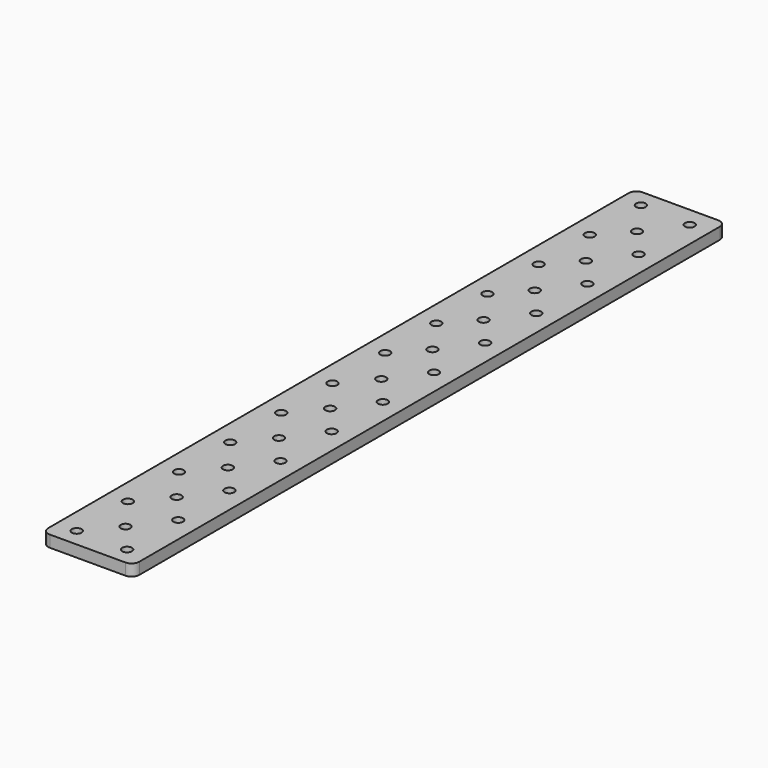
from build123d import *

# Parameters (mm, degrees)
F0_W     = 298.45
F0_H     = 2428.875
F1_DEPTH = 38.1
F2_R     = 25.4
F3_R     = 25.4
F4_R     = 25.4
F6_D     = 31.75


with BuildPart() as f1:
    # F0 (on Top) → F1 (new body)
    with BuildSketch(Plane.XY):
        Rectangle(F0_W, F0_H)
    extrude(amount=F1_DEPTH)

    # F2
    f2_edges = [f1.edges().sort_by_distance(p)[0] for p in [
        (149.225, 1214.4375, 19.05),
    ]]
    fillet(f2_edges, radius=F2_R)

    # F3
    f3_edges = [f1.edges().sort_by_distance(p)[0] for p in [
        (-149.225, 1214.4375, 19.05),
    ]]
    fillet(f3_edges, radius=F3_R)

    # F4
    f4_edges = [f1.edges().sort_by_distance(p)[0] for p in [
        (-149.225, -1214.4375, 19.05),
        (149.225, -1214.4375, 19.05),
    ]]
    fillet(f4_edges, radius=F4_R)

    # F6 (through all)
    with Locations(Plane.XY.offset(38.1)):
        with Locations((-82.55, -1155.7), (82.55, -1155.7), (0, -1058.8625), (82.55, -946.15), (-82.55, -946.15), (0, 1036.6375), (82.55, 1149.35), (82.55, 939.8), (-82.55, 1155.7), (-82.55, 946.15), (0, 827.0875), (82.55, 730.25), (-82.55, 736.6), (0, 617.5375), (82.55, 520.7), (-82.55, 317.5), (0, 407.9875), (-82.55, 527.05), (82.55, 311.15), (0, 198.4375), (0, -11.1125), (-82.55, 107.95), (82.55, 101.6), (-82.55, -107.95), (82.55, -107.95), (0, -220.6625), (-82.55, -317.5), (0, -430.2125), (82.55, -317.5), (82.55, -527.05), (82.55, -736.6), (0, -849.3125), (-82.55, -736.6), (0, -639.7625), (-82.55, -527.05)):
            Hole(F6_D / 2)


solid = f1.part
